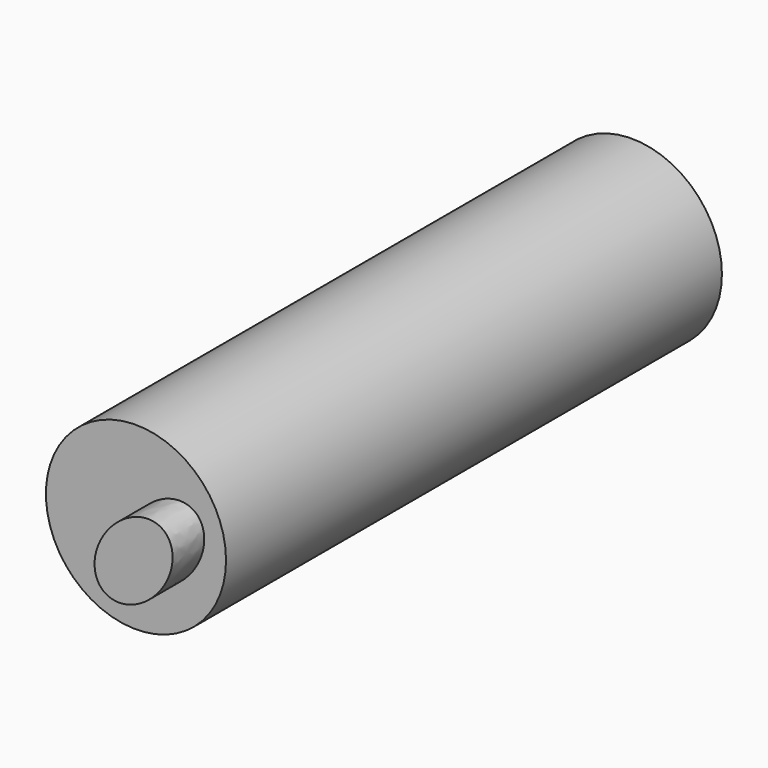
from build123d import *

# Parameters (mm, degrees)
F0_R      = 57.861
F1_DEPTH  = 253.413677
F1_FACE_R = 57.861
F2_DEPTH  = 144.836873
F5_DEPTH  = 25.4


with BuildPart() as f1:
    # F0 (on Front) → F1 (new body)
    with BuildSketch(Plane.XZ):
        with Locations((70.250988, 58.846217)):
            Circle(F0_R)
    extrude(amount=F1_DEPTH)

    # F1_face (on face) → F2 (join)
    with BuildSketch(Plane(origin=(70.250988, -253.413677, 58.846217), x_dir=(1, 0, 0), z_dir=(0, -1, 0))):
        Circle(F1_FACE_R)
    extrude(amount=F2_DEPTH)

    # F4 (on face) → F5 (join)
    with BuildSketch(Plane.XZ.offset(398.25055)):
        with BuildLine():
            add(Edge.make_bspline(
                [(69.40268, 33.042915), (96.414929, 10.176068), (112.361828, 56.401889), (128.308728, 102.62771), (85.34958, 79.268736), (42.390431, 55.909762), (69.40268, 33.042915)],
                knots=[0, 0, 0, 2.094395, 2.094395, 4.18879, 4.18879, 6.283185, 6.283185, 6.283185], degree=2, weights=[1, 0.5, 1, 0.5, 1, 0.5, 1]))
        make_face()
        with BuildLine():
            add(Edge.make_bspline(
                [(69.40268, 33.042915), (96.414929, 10.176068), (112.361828, 56.401889), (128.308728, 102.62771), (85.34958, 79.268736), (42.390431, 55.909762), (69.40268, 33.042915)],
                knots=[0, 0, 0, 2.094395, 2.094395, 4.18879, 4.18879, 6.283185, 6.283185, 6.283185], degree=2, weights=[1, 0.5, 1, 0.5, 1, 0.5, 1]))
        make_face()
    extrude(amount=F5_DEPTH)


solid = f1.part
